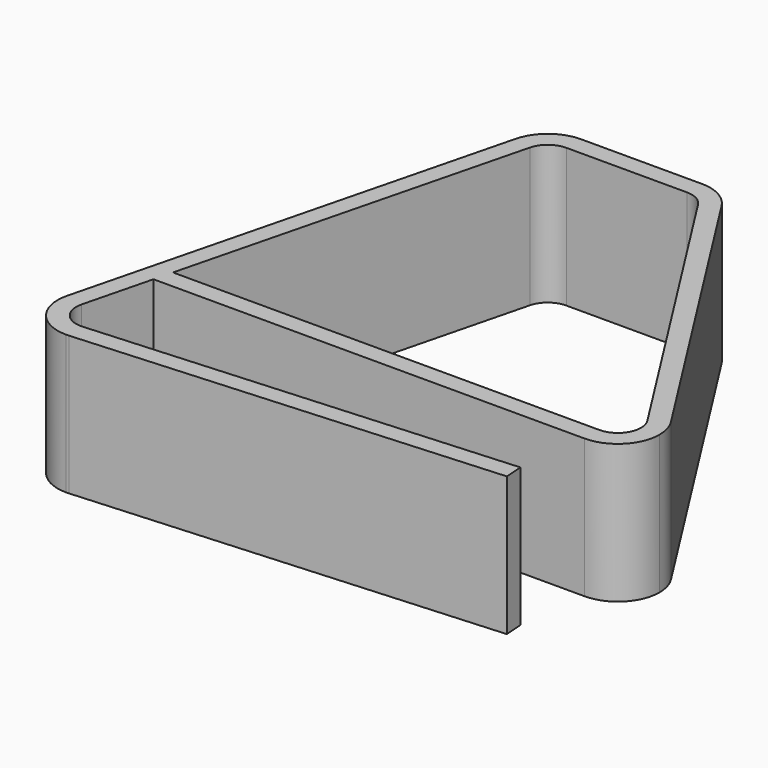
from build123d import *

# Parameters (mm, degrees)
F1_DEPTH = 38.1


with BuildPart() as f1:
    # F0 (on Top) → F1 (new body)
    with BuildSketch(Plane.XY):
        with BuildLine():
            Line((-100.014186, 0), (-76.509308, 92.996038))
            ThreePointArc((-76.509308, 92.996038), (-74.254297, 96.450157), (-70.352909, 97.79))
            Line((-70.352909, 97.79), (-37.21714, 97.79))
            ThreePointArc((-37.21714, 97.79), (-34.162034, 97.006761), (-31.86059, 94.85026))
            Line((-31.86059, 94.85026), (22.312168, 9.76026))
            ThreePointArc((22.312168, 9.76026), (22.522379, 3.294894), (16.955618, 0))
            Line((16.955618, 0), (16.955618, -5.08))
            ThreePointArc((16.955618, -5.08), (25.037849, -1.732231), (28.385618, 6.35))
            ThreePointArc((28.385618, 6.35), (27.929463, 9.546815), (26.597408, 12.488469))
            Line((26.597408, 12.488469), (-27.575351, 97.578469))
            ThreePointArc((-27.575351, 97.578469), (-31.717949, 101.46017), (-37.21714, 102.87))
            Line((-37.21714, 102.87), (-70.352909, 102.87))
            ThreePointArc((-70.352909, 102.87), (-77.375407, 100.458282), (-81.434426, 94.240869))
            Line((-81.434426, 94.240869), (-110.965899, -22.599131))
            ThreePointArc((-110.965899, -22.599131), (-111.226926, -23.988768), (-111.314382, -25.4))
            ThreePointArc((-111.314382, -25.4), (-107.966612, -33.48223), (-99.884382, -36.83))
            ThreePointArc((-99.884382, -36.83), (-99.503874, -36.823665), (-99.123789, -36.804666))
            Line((-99.123789, -36.804666), (14.922868, -29.19874))
            Line((14.922868, -29.19874), (14.584826, -24.13))
            Line((14.584826, -24.13), (-99.46183, -31.735925))
            ThreePointArc((-99.46183, -31.735925), (-99.672989, -31.74648), (-99.884382, -31.75))
            ThreePointArc((-99.884382, -31.75), (-104.894538, -29.301388), (-106.04078, -23.843962))
            Line((-106.04078, -23.843962), (-101.298163, -5.08))
            Line((-101.298163, -5.08), (-100.014186, 0))
        make_face()
        Polygon((0, 0), (-100.014186, 0), (-101.298163, -5.08), (0, -5.08), (16.955618, -5.08), (16.955618, 0), (4.030591, 0), align=None)
    extrude(amount=F1_DEPTH)


solid = f1.part
